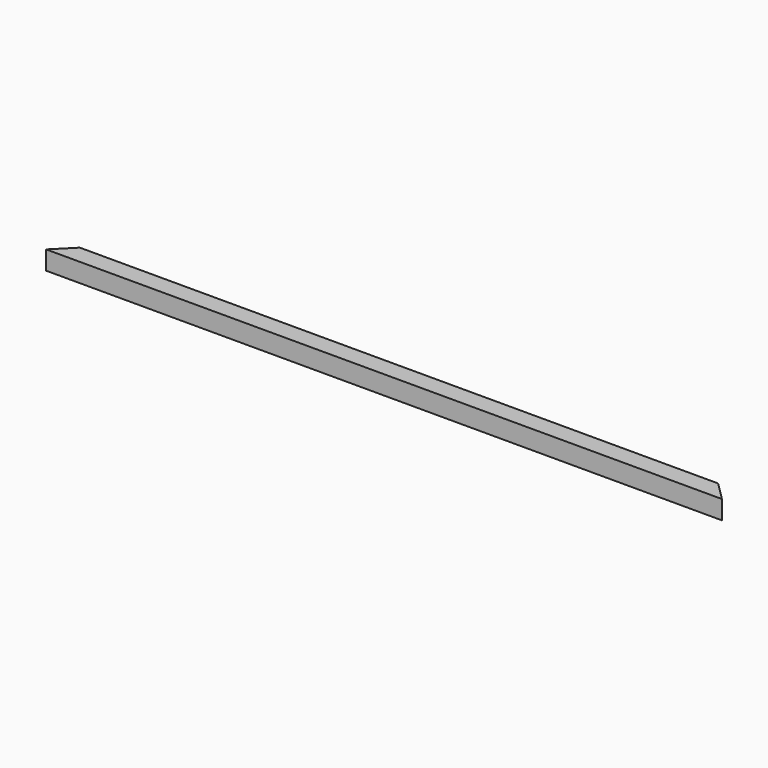
from build123d import *

# Parameters (mm, degrees)
F0_W     = 50.8
F0_H     = 50.8
F0_W_2   = 44.45
F0_H_2   = 44.45
F1_DEPTH = 1828.8
F3_DEPTH = 50.801


with BuildPart() as f1:
    # F0 (on Right) → F1 (new body)
    with BuildSketch(Plane.YZ):
        with Locations((25.4, 25.4)):
            Rectangle(F0_W, F0_H)
        with Locations((25.4, 25.4)):
            Rectangle(F0_W_2, F0_H_2, mode=Mode.SUBTRACT)
    extrude(amount=F1_DEPTH)

    # F2 (on face) → F3 (cut, through all)
    with BuildSketch(Plane.XY.offset(50.8)):
        Polygon((0, 50.8), (0, 0), (50.8, 50.8), align=None)
        Polygon((1778, 50.8), (1828.8, 0), (1828.8, 50.8), align=None)
    extrude(amount=-F3_DEPTH, mode=Mode.SUBTRACT)


solid = f1.part
